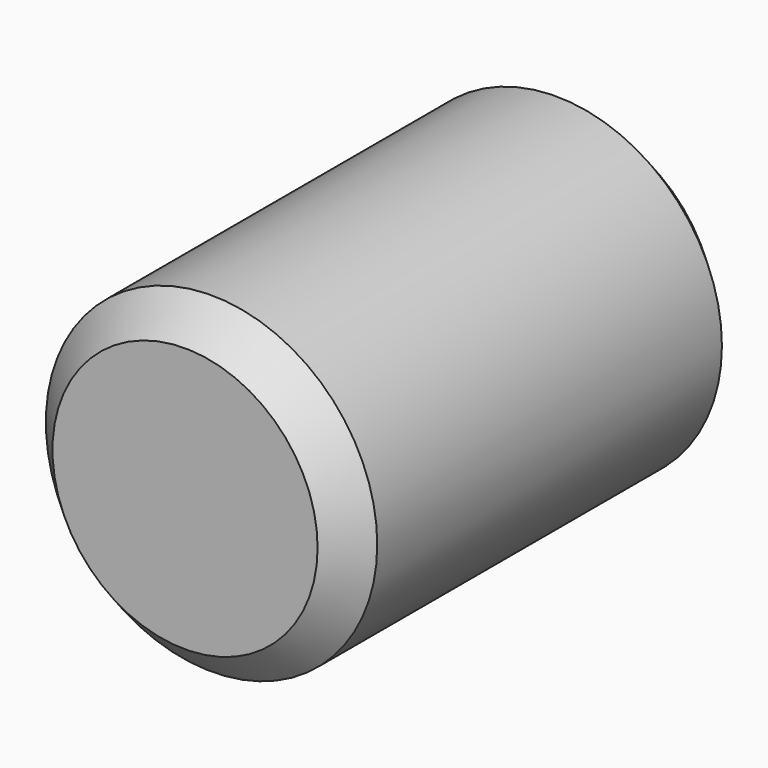
from build123d import *

# Parameters (mm, degrees)
F0_R     = 5
F1_DEPTH = 15
F2_SIZE  = 1
F3_SIZE  = 1


with BuildPart() as f1:
    # F0 (on Front) → F1 (new body)
    with BuildSketch(Plane.XZ):
        Circle(F0_R)
    extrude(amount=F1_DEPTH)

    # F2
    f2_edges = [f1.edges().sort_by_distance(p)[0] for p in [
        (-5, 0, 0),
    ]]
    chamfer(f2_edges, length=F2_SIZE)

    # F3
    f3_edges = [f1.edges().sort_by_distance(p)[0] for p in [
        (-5, -15, 0),
    ]]
    chamfer(f3_edges, length=F3_SIZE)


solid = f1.part
